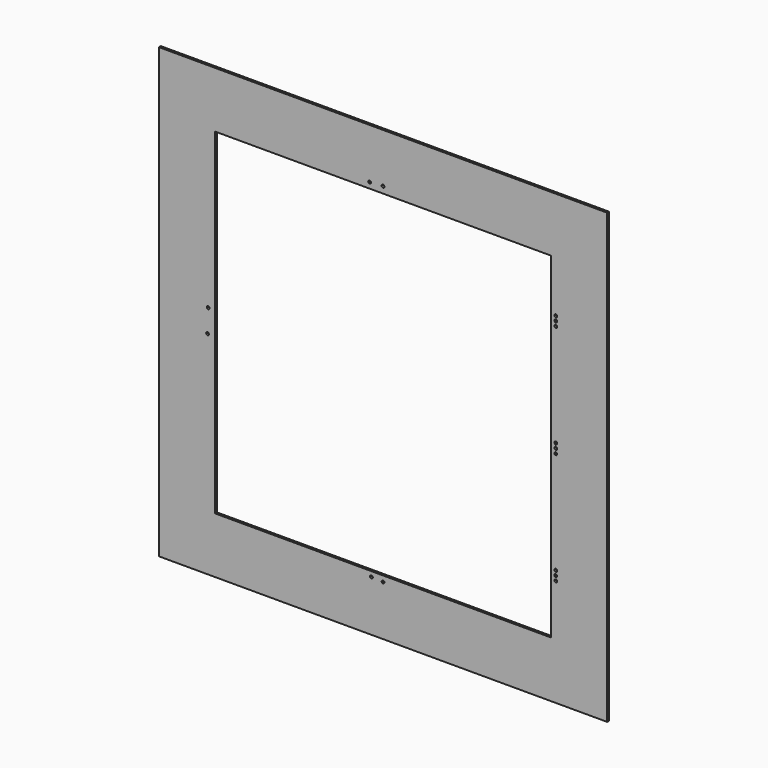
from build123d import *

# Parameters (mm, degrees)
F0_W           = 1079.5
F0_H           = 1219.2
F1_DEPTH       = 6.35
F2_D           = 7.62
F2_CSINK_D     = 9.525
F2_CSINK_ANGLE = 90


with BuildPart() as f1:
    # F0 (on Front) → F1 (new body)
    with BuildSketch(Plane.XZ):
        Polygon((469.9, -609.6), (609.6, -609.6), (609.6, -304.8), (609.6, 0), (609.6, 304.8), (609.6, 609.6), (469.9, 609.6), align=None)
        with Locations((-69.85, 0)):
            Rectangle(F0_W, F0_H)
        Polygon((457.2, -304.8), (457.2, -457.2), (-457.2, -457.2), (-457.2, 457.2), (457.2, 457.2), (457.2, 304.8), (457.2, 0), align=None, mode=Mode.SUBTRACT)
    extrude(amount=F1_DEPTH)

    # F2 (through all)
    with Locations(Plane(origin=(0, 0, 0), x_dir=(1, 0, 0), z_dir=(0, 1, 0))):
        with Locations((469.9, -317.5), (469.9, -304.8), (469.9, -292.1), (469.9, -12.7), (469.9, 12.7), (469.9, 0), (469.9, 292.1), (469.9, 304.8), (469.9, 317.5), (0, -474.7993648052), (-36.5521088243, -473.1907248497), (-475.7132232189, -29.2036738247), (-477.3218631744, 33.53362903), (-31.7261591554, 471.0860848427), (0, 472.6947247982)):
            CounterSinkHole(F2_D / 2, F2_CSINK_D / 2, counter_sink_angle=F2_CSINK_ANGLE)


solid = f1.part
